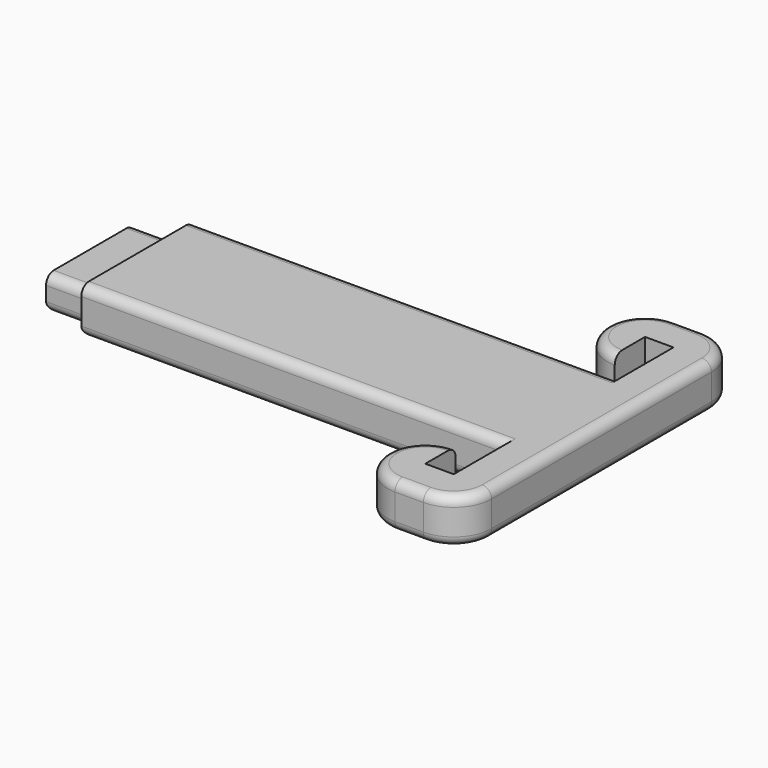
from build123d import *

# Parameters (mm, degrees)
F1_DEPTH = 4.75
F0_W     = 5
F0_H     = 11.6
F2_DEPTH = 3.5
F3_R     = 1


with BuildPart() as f1:
    # F0 (on Top) → F1 (new body)
    with BuildSketch(Plane.XY):
        with BuildLine():
            Line((-45, 7.4), (-45, 5.8))
            Line((-45, 5.8), (-45, -5.8))
            Line((-45, -5.8), (-45, -7.4))
            Line((-45, -7.4), (0, -7.4))
            Line((0, -7.4), (0, -14.5))
            Line((0, -14.5), (-3, -14.5))
            Line((-3, -14.5), (-3, -10.5))
            ThreePointArc((-3, -10.5), (-5.828427, -11.671573), (-7, -14.5))
            ThreePointArc((-7, -14.5), (-5.828427, -17.328427), (-3, -18.5))
            Line((-3, -18.5), (0, -18.5))
            ThreePointArc((0, -18.5), (2.828427, -17.328427), (4, -14.5))
            Line((4, -14.5), (4, 0))
            Line((4, 0), (4, 14.5))
            ThreePointArc((4, 14.5), (2.828427, 17.328427), (0, 18.5))
            Line((0, 18.5), (-3, 18.5))
            ThreePointArc((-3, 18.5), (-5.828427, 17.328427), (-7, 14.5))
            ThreePointArc((-7, 14.5), (-5.828427, 11.671573), (-3, 10.5))
            Line((-3, 10.5), (-3, 14.5))
            Line((-3, 14.5), (0, 14.5))
            Line((0, 14.5), (0, 7.4))
            Line((0, 7.4), (-45, 7.4))
        make_face()
    extrude(amount=F1_DEPTH)

    # F0 (on Top) → F2 (join)
    with BuildSketch(Plane.XY):
        with Locations((-47.5, 0)):
            Rectangle(F0_W, F0_H)
    extrude(amount=F2_DEPTH)

    # F3
    f3_edges = [f1.edges().sort_by_distance(p)[0] for p in [
        (-47.5, -5.8, 3.5),
        (-47.5, 5.8, 3.5),
        (-22.5, -7.4, 4.75),
        (-22.5, 7.4, 4.75),
        (-7, 14.5, 4.75),
        (2.828427, 17.328427, 0),
        (-1.5, 18.5, 0),
        (-7, 14.5, 0),
        (-3, 12.5, 0),
        (-1.5, 14.5, 0),
        (0, 10.95, 0),
        (-22.5, 7.4, 0),
        (-45, 6.6, 0),
        (-47.5, 5.8, 0),
        (-50, 0, 0),
        (-47.5, -5.8, 0),
        (-45, -6.6, 0),
        (-22.5, -7.4, 0),
        (0, -10.95, 0),
        (-1.5, -14.5, 0),
        (-3, -12.5, 0),
        (-7, -14.5, 0),
        (-1.5, -18.5, 0),
        (2.828427, -17.328427, 0),
        (4, 0, 0),
    ]]
    fillet(f3_edges, radius=F3_R)


solid = f1.part
